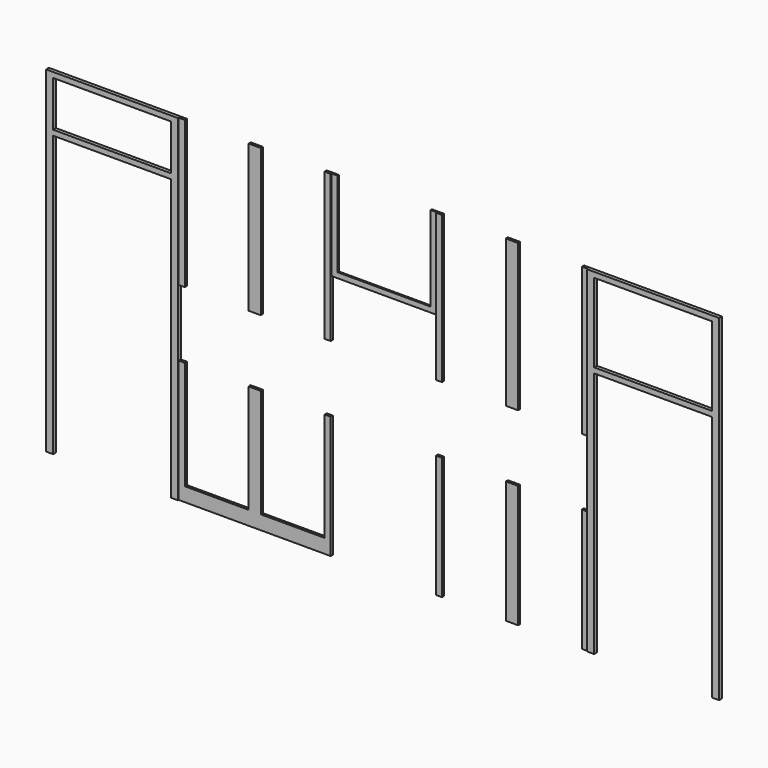
from build123d import *

# Parameters (mm, degrees)
F0_W     = 854.075
F0_H     = 38.1
F1_DEPTH = 25.4
F0_W_2   = 44.45
F0_H_2   = 1066.8
F2_DEPTH = 19.05
F0_W_3   = 88.9
F0_H_3   = 787.4
F0_H_4   = 889
F0_H_5   = 615.95
F3_DEPTH = 12.7


with BuildPart() as f1:
    # F0 (on Front) → F1 (new body)
    with BuildSketch(Plane.XZ):
        Polygon((0, 2438.4), (0, 0), (50.8, 0), (50.8, 2032), (50.8, 2070.1), (50.8, 2400.3), (50.8, 2438.4), align=None)
        with Locations((477.8375, 2051.05)):
            Rectangle(F0_W, F0_H)
        with Locations((477.8375, 2419.35)):
            Rectangle(F0_W, F0_H)
        Polygon((904.875, 2032), (904.875, 0), (955.675, 0), (955.675, 889), (955.675, 1371.6), (955.675, 2438.4), (904.875, 2438.4), (904.875, 2400.3), (904.875, 2070.1), align=None)
    extrude(amount=F1_DEPTH)


with BuildPart() as f1b:
    # F0 (on Front) → F1, piece 2 (new body)
    with BuildSketch(Plane.XZ):
        Polygon((3921.125, 889), (3921.125, 0), (3971.925, 0), (3971.925, 1790.7), (3971.925, 1828.8), (3971.925, 2400.3), (3971.925, 2438.4), (3921.125, 2438.4), (3921.125, 1371.6), align=None)
        with Locations((4398.9625, 1809.75)):
            Rectangle(F0_W, F0_H)
        with Locations((4398.9625, 2419.35)):
            Rectangle(F0_W, F0_H)
        Polygon((4826, 1790.7), (4826, 0), (4876.8, 0), (4876.8, 2438.4), (4826, 2438.4), (4826, 2400.3), (4826, 1828.8), align=None)
    extrude(amount=F1_DEPTH)


with BuildPart() as f2:
    # F0 (on Front) → F2 (new body)
    with BuildSketch(Plane.XZ):
        with Locations((977.9, 1905)):
            Rectangle(F0_W_2, F0_H_2)
    extrude(amount=F2_DEPTH)


with BuildPart() as f2b:
    # F0 (on Front) → F2, piece 2 (new body)
    with BuildSketch(Plane.XZ):
        with Locations((1506.5375, 1905)):
            Rectangle(F0_W_3, F0_H_2)
    extrude(amount=F2_DEPTH)


with BuildPart() as f2c:
    # F0 (on Front) → F2, piece 3 (new body)
    with BuildSketch(Plane.XZ):
        Polygon((2057.4, 2438.4), (2012.95, 2438.4), (2012.95, 1371.6), (2057.4, 1371.6), (2057.4, 1784.35), (2057.4, 1822.45), align=None)
    extrude(amount=F2_DEPTH)


with BuildPart() as f2d:
    # F0 (on Front) → F2, piece 4 (new body)
    with BuildSketch(Plane.XZ):
        Polygon((2863.85, 2438.4), (2819.4, 2438.4), (2819.4, 1822.45), (2819.4, 1784.35), (2819.4, 1371.6), (2863.85, 1371.6), align=None)
    extrude(amount=F2_DEPTH)


with BuildPart() as f2e:
    # F0 (on Front) → F2, piece 5 (new body)
    with BuildSketch(Plane.XZ):
        with Locations((3370.2625, 1905)):
            Rectangle(F0_W_3, F0_H_2)
    extrude(amount=F2_DEPTH)


with BuildPart() as f2f:
    # F0 (on Front) → F2, piece 6 (new body)
    with BuildSketch(Plane.XZ):
        with Locations((3898.9, 1905)):
            Rectangle(F0_W_2, F0_H_2)
    extrude(amount=F2_DEPTH)


with BuildPart() as f2g:
    # F0 (on Front) → F2, piece 7 (new body)
    with BuildSketch(Plane.XZ):
        Polygon((955.675, 889), (955.675, 0), (2012.95, 0), (2012.95, 101.6), (1550.9875, 101.6), (1462.0875, 101.6), (1000.125, 101.6), (1000.125, 889), align=None)
        with Locations((1506.5375, 495.3)):
            Rectangle(F0_W_3, F0_H_3)
        Polygon((2012.95, 101.6), (2012.95, 0), (2057.4, 0), (2057.4, 889), (2012.95, 889), align=None)
    extrude(amount=F2_DEPTH)


with BuildPart() as f2h:
    # F0 (on Front) → F2, piece 8 (new body)
    with BuildSketch(Plane.XZ):
        with Locations((2841.625, 444.5)):
            Rectangle(F0_W_2, F0_H_4)
    extrude(amount=F2_DEPTH)


with BuildPart() as f2i:
    # F0 (on Front) → F2, piece 9 (new body)
    with BuildSketch(Plane.XZ):
        with Locations((3370.2625, 444.5)):
            Rectangle(F0_W_3, F0_H_4)
    extrude(amount=F2_DEPTH)


with BuildPart() as f2j:
    # F0 (on Front) → F2, piece 10 (new body)
    with BuildSketch(Plane.XZ):
        with Locations((3898.9, 444.5)):
            Rectangle(F0_W_2, F0_H_4)
    extrude(amount=F2_DEPTH)


with BuildPart() as f3:
    # F0 (on Front) → F3 (new body)
    with BuildSketch(Plane.XZ):
        with Locations((2079.625, 2130.425)):
            Rectangle(F0_W_2, F0_H_5)
        Polygon((2101.85, 1822.45), (2057.4, 1822.45), (2057.4, 1784.35), (2819.4, 1784.35), (2819.4, 1822.45), (2774.95, 1822.45), align=None)
        with Locations((2797.175, 2130.425)):
            Rectangle(F0_W_2, F0_H_5)
    extrude(amount=F3_DEPTH)


solid = Compound([f1.part, f1b.part, f2.part, f2b.part, f2c.part, f2d.part, f2e.part, f2f.part, f2g.part, f2h.part, f2i.part, f2j.part, f3.part])
